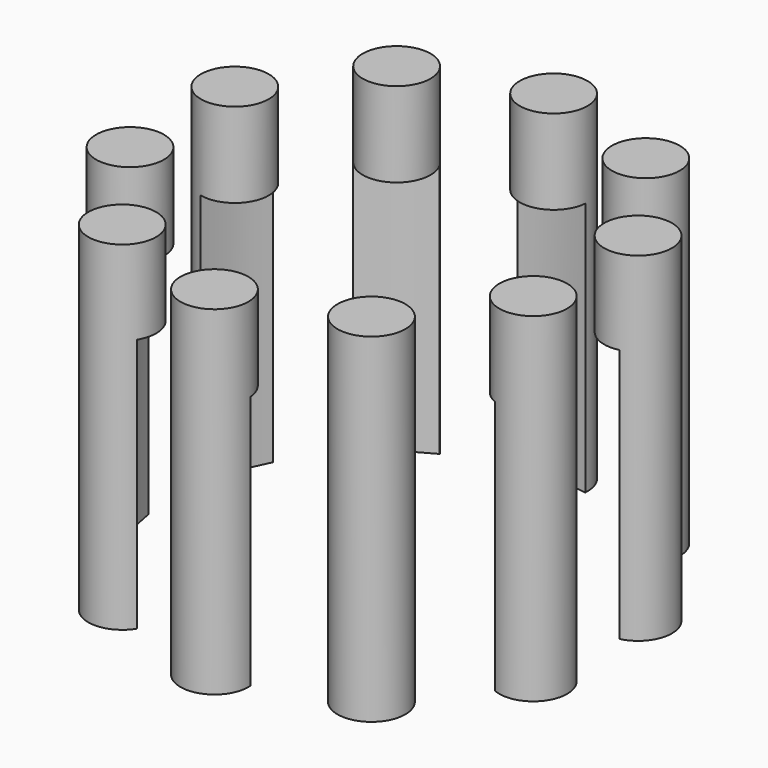
from build123d import *

# Parameters (mm, degrees)
F0_R     = 31.75
F1_DEPTH = 38.1
F2_R     = 5.08
F3_DEPTH = 50.8


with BuildPart() as f1:
    # F0 (on Top) → F1 (new body)
    with BuildSketch(Plane.XY):
        Circle(F0_R)
    extrude(amount=F1_DEPTH)


with BuildPart() as f3:
    # F2 (on Top) → F3 (new body)
    with BuildSketch(Plane.XY):
        with Locations((0, 31.75)):
            Circle(F2_R)
        with Locations((-18.662182, 25.68629)):
            Circle(F2_R)
        with Locations((-30.196044, 9.81129)):
            Circle(F2_R)
        with Locations((-30.196044, -9.81129)):
            Circle(F2_R)
        with Locations((-18.662182, -25.68629)):
            Circle(F2_R)
        with Locations((0, -31.75)):
            Circle(F2_R)
        with Locations((18.662182, -25.68629)):
            Circle(F2_R)
        with Locations((30.196044, -9.81129)):
            Circle(F2_R)
        with Locations((30.196044, 9.81129)):
            Circle(F2_R)
        with Locations((18.662182, 25.68629)):
            Circle(F2_R)
    extrude(amount=F3_DEPTH)

    # F4: cut F1
    add(f1.part, mode=Mode.SUBTRACT)


solid = f3.part
